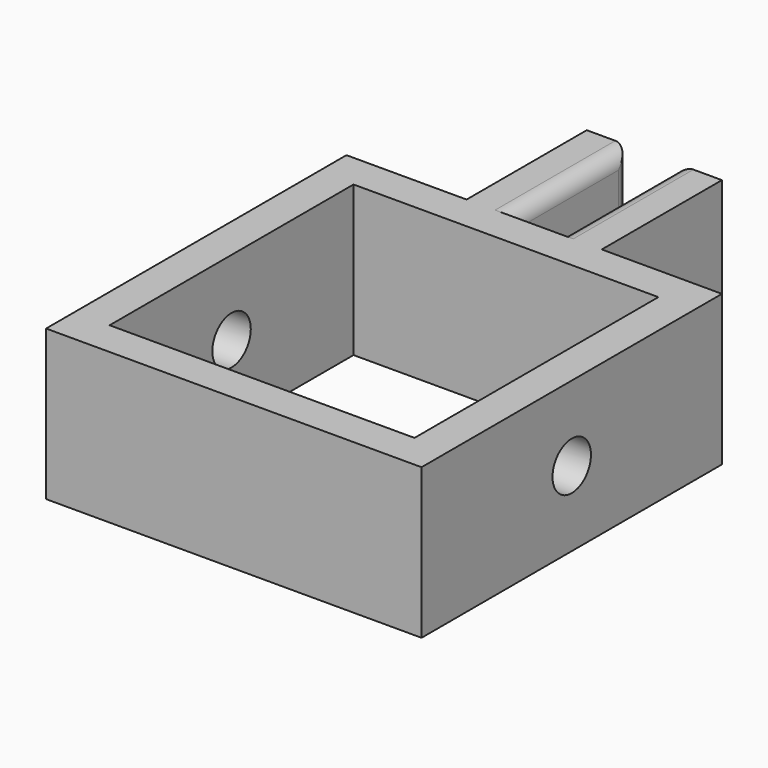
from build123d import *

# Parameters (mm, degrees)
SKETCH034_W          = 20.3
SKETCH034_H          = 20.3
PAD005_DEPTH         = 10
SKETCH035_W          = 3.2
SKETCH035_H          = 10
POCKET026_DEPTH      = 7
FILLET002_R          = 1
SKETCH036_R          = 1.6
POCKET027_DEPTH      = 12.501
POCKET027_DEPTH_BACK = 12.501


with BuildPart() as part:
    # Sketch034 → Pad005 (new body)
    with BuildSketch(Plane.XY):
        Polygon((-12.5, 12.5), (-4.5, 12.5), (-4.5, 22.5), (4.5, 22.5), (4.5, 12.5), (12.5, 12.5), (12.5, -12.5), (-12.5, -12.5), align=None)
        Rectangle(SKETCH034_W, SKETCH034_H, mode=Mode.SUBTRACT)
    extrude(amount=PAD005_DEPTH)

    # Sketch035 → Pocket026 (cut)
    with BuildSketch(Plane.XY.offset(3)):
        with Locations((0, 17.5)):
            Rectangle(SKETCH035_W, SKETCH035_H)
    extrude(amount=POCKET026_DEPTH, mode=Mode.SUBTRACT)

    # Fillet002
    fillet002_edges = [part.edges().sort_by_distance(p)[0] for p in [
        (1.6, 22.5, 6.5),
        (1.6, 17.5, 10),
        (-1.6, 22.5, 6.5),
        (-1.6, 17.5, 10),
    ]]
    fillet(fillet002_edges, radius=FILLET002_R)

    # Sketch036 → Pocket027 (cut, two sides)
    with BuildSketch(Plane.YZ) as pocket027_sk:
        with Locations((0, 5)):
            Circle(SKETCH036_R)
    extrude(amount=-POCKET027_DEPTH, mode=Mode.SUBTRACT)
    extrude(pocket027_sk.sketch, amount=POCKET027_DEPTH_BACK, mode=Mode.SUBTRACT)


solid = part.part
